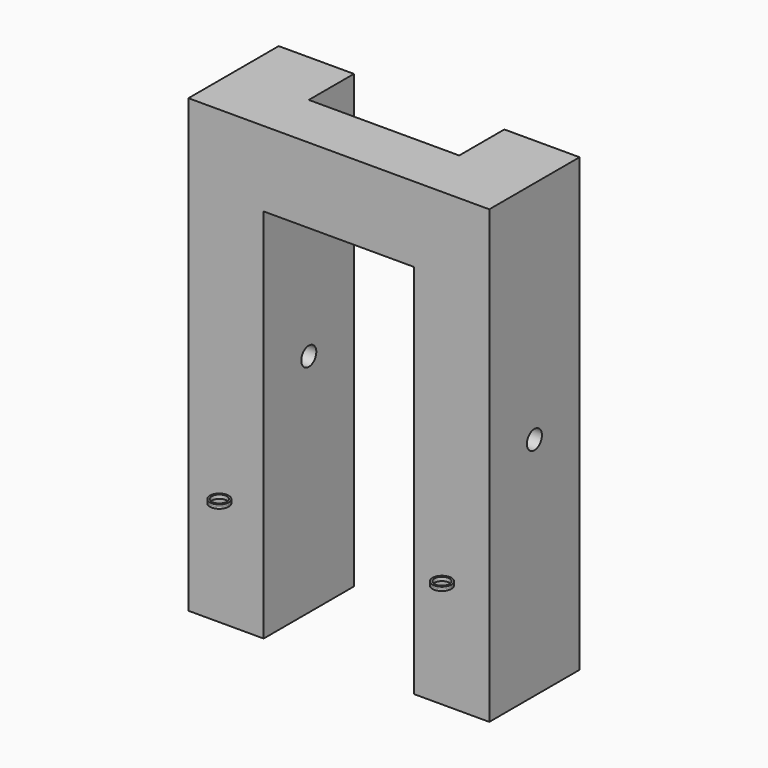
from build123d import *

# Parameters (mm, degrees)
F0_W          = 203.2
F0_H          = 76.2
F1_DEPTH      = 304.8
F2_W          = 101.6
F2_H          = 254
F3_DEPTH      = 76.201
F4_R          = 6.35
F5_DEPTH      = 203.201
F7_R          = 6.35
F8_DEPTH      = 1.27
F8_DEPTH_BACK = 1.27
F9_R          = 5.08
F10_DEPTH     = 77.471
F11_W         = 101.6
F11_H         = 38.1
F12_DEPTH     = 304.801


with BuildPart() as f1:
    # F0 (on Top) → F1 (new body)
    with BuildSketch(Plane.XY):
        Rectangle(F0_W, F0_H)
    extrude(amount=F1_DEPTH)

    # F2 (on face) → F3 (cut, through all)
    with BuildSketch(Plane.XZ.offset(38.1)):
        with Locations((0, 127)):
            Rectangle(F2_W, F2_H)
    extrude(amount=-F3_DEPTH, mode=Mode.SUBTRACT)

    # F4 (on face) → F5 (cut, through all)
    with BuildSketch(Plane.YZ.offset(101.6)):
        with Locations((0, 152.4)):
            Circle(F4_R)
    extrude(amount=-F5_DEPTH, mode=Mode.SUBTRACT)

    # F7 (on offset) → F8 (join, two sides)
    with BuildSketch(Plane.XY.offset(76.2)) as f8_sk:
        with Locations((74.685387, -44.45)):
            Circle(F7_R)
        with Locations((-75.681136, -44.45)):
            Circle(F7_R)
    extrude(amount=F8_DEPTH)
    extrude(f8_sk.sketch, amount=-F8_DEPTH_BACK)

    # F9 (on face) → F10 (cut, through all)
    with BuildSketch(Plane.XY.offset(77.47)):
        with Locations((74.685387, -44.45)):
            Circle(F9_R)
        with Locations((-75.681136, -44.45)):
            Circle(F9_R)
    extrude(amount=-F10_DEPTH, mode=Mode.SUBTRACT)

    # F11 (on face) → F12 (cut, through all)
    with BuildSketch(Plane.XY.offset(304.8)):
        with Locations((0, 19.05)):
            Rectangle(F11_W, F11_H)
    extrude(amount=-F12_DEPTH, mode=Mode.SUBTRACT)


solid = f1.part
